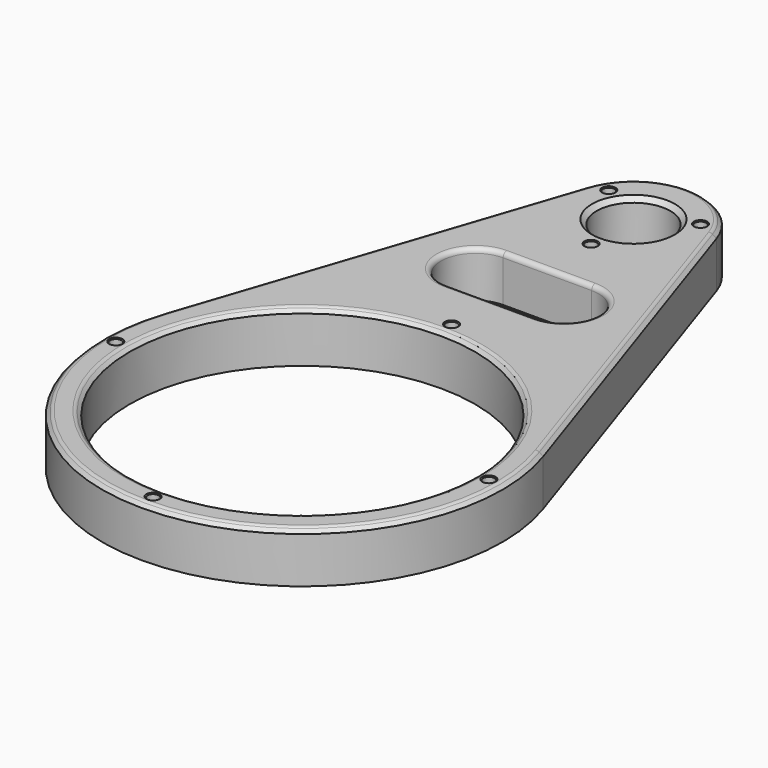
from build123d import *

# Parameters (mm, degrees)
SKETCH001_R     = 37.5
SKETCH001_R_2   = 8
SKETCH001_R_3   = 1.25
PAD_DEPTH       = 11
CHAMFER_SIZE    = 1
CHAMFER001_SIZE = 1
FILLET_R        = 1
CHAMFER002_SIZE = 0.2
CHAMFER003_SIZE = 1


with BuildPart() as part:
    # Sketch001 → Pad (new body)
    with BuildSketch(Plane.XY):
        with BuildLine():
            ThreePointArc((160.234726, 302.987663), (146.009323, 313.229733), (131.78392, 302.987663))
            Line((104.755653, 222.17773), (131.78392, 302.987663))
            ThreePointArc((104.755653, 222.17773), (146.009323, 164.879733), (187.262993, 222.17773))
            Line((160.234726, 302.987663), (187.262993, 222.17773))
        make_face()
        with Locations((146.009323, 208.379733)):
            Circle(SKETCH001_R, mode=Mode.SUBTRACT)
        with Locations((146.009323, 298.229733)):
            Circle(SKETCH001_R_2, mode=Mode.SUBTRACT)
        with Locations((155.968615, 303.979733)):
            Circle(SKETCH001_R_3, mode=Mode.SUBTRACT)
        with Locations((146.009323, 286.729733)):
            Circle(SKETCH001_R_3, mode=Mode.SUBTRACT)
        with Locations((136.050031, 303.979733)):
            Circle(SKETCH001_R_3, mode=Mode.SUBTRACT)
        with Locations((146.009323, 248.879733)):
            Circle(SKETCH001_R_3, mode=Mode.SUBTRACT)
        with Locations((186.509323, 208.379733)):
            Circle(SKETCH001_R_3, mode=Mode.SUBTRACT)
        with Locations((146.009323, 167.879733)):
            Circle(SKETCH001_R_3, mode=Mode.SUBTRACT)
        with Locations((105.509323, 208.379733)):
            Circle(SKETCH001_R_3, mode=Mode.SUBTRACT)
        with BuildLine():
            ThreePointArc((136.404664, 274.879733), (128.904664, 267.379733), (136.404664, 259.879733))
            Line((136.404664, 259.879733), (155.613982, 259.879733))
            ThreePointArc((155.613982, 259.879733), (163.113982, 267.379733), (155.613982, 274.879733))
            Line((136.404664, 274.879733), (155.613982, 274.879733))
        make_face(mode=Mode.SUBTRACT)
    extrude(amount=PAD_DEPTH)

    # Chamfer
    chamfer_edges = [part.edges().sort_by_distance(p)[0] for p in [
        (108.509323, 208.379733, 11),
        (146.009323, 274.879733, 0),
    ]]
    chamfer(chamfer_edges, length=CHAMFER_SIZE)

    # Chamfer001
    chamfer001_edges = [part.edges().sort_by_distance(p)[0] for p in [
        (173.74886, 262.582696, 11),
    ]]
    chamfer(chamfer001_edges, length=CHAMFER001_SIZE)

    # Fillet
    fillet_edges = [part.edges().sort_by_distance(p)[0] for p in [
        (146.009323, 274.879733, 11),
        (107.509323, 208.379733, 11),
        (119.218147, 262.265501, 11),
        (146.009323, 165.879733, 11),
    ]]
    fillet(fillet_edges, radius=FILLET_R)

    # Chamfer002
    chamfer002_edges = [part.edges().sort_by_distance(p)[0] for p in [
        (144.759323, 286.729733, 11),
        (134.800031, 303.979733, 11),
        (154.718615, 303.979733, 11),
        (185.259323, 208.379733, 11),
        (144.759323, 167.879733, 11),
        (104.259323, 208.379733, 11),
        (144.759323, 248.879733, 11),
    ]]
    chamfer(chamfer002_edges, length=CHAMFER002_SIZE)

    # Chamfer003
    chamfer003_edges = [part.edges().sort_by_distance(p)[0] for p in [
        (138.009323, 298.229733, 11),
    ]]
    chamfer(chamfer003_edges, length=CHAMFER003_SIZE)


solid = part.part
